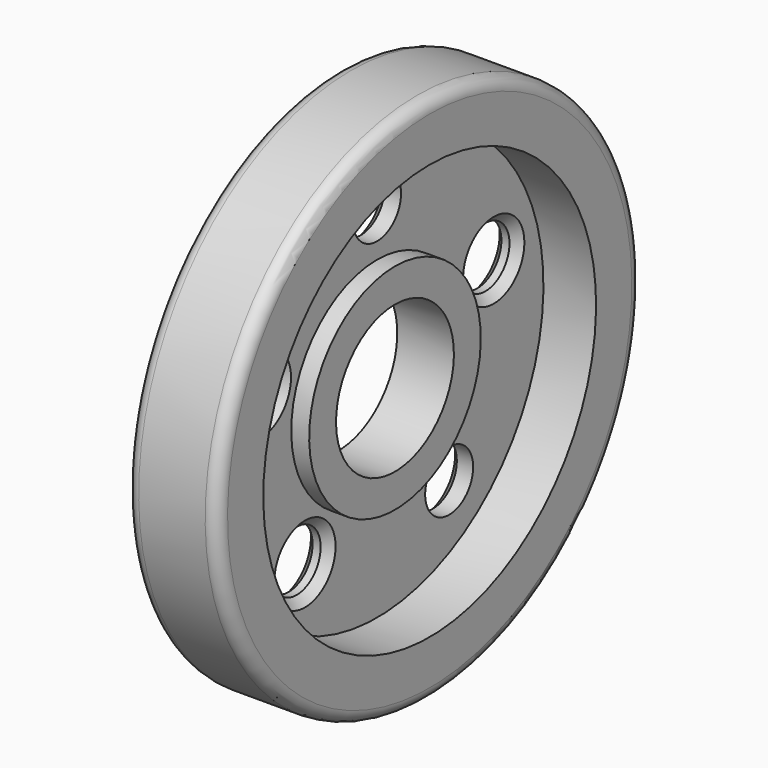
from build123d import *

# Parameters (mm, degrees)
F2_R     = 7.2342106025
F3_DEPTH = 25
F4_R     = 3
F5_SIZE  = 2


with BuildPart() as f1:
    # F0 (on Front) → F1 (revolve)
    with BuildSketch(Plane.XZ):
        Polygon((0, 25.867851451), (0, 17.7663322538), (13.6637529358, 17.7663322538), (13.6637529358, 25.867851451), (9.3429423869, 25.867851451), (9.3429423869, 50.1724109054), (22.035324946, 50.1724109054), (22.035324946, 63.9449954033), (0, 63.9449954033), (0, 50.1724109054), (3.4018275328, 50.1724109054), (3.4018275328, 25.867851451), align=None)
    revolve(axis=Axis((6.8318764679, 0, 0), (1, 0, 0)))

    # F2 (on face) → F3 (cut)
    with BuildSketch(Plane.YZ.offset(9.3429423869)):
        with Locations((0, 36.9940809906)):
            Circle(F2_R)
        with Locations((-21.7445752284, -29.9288402126)):
            Circle(F2_R)
        with Locations((21.7445752284, -29.9288402126)):
            Circle(F2_R)
        with Locations((35.1834617904, 11.4317997174)):
            Circle(F2_R)
        with Locations((-35.1834617904, 11.4317997174)):
            Circle(F2_R)
    extrude(amount=-F3_DEPTH, mode=Mode.SUBTRACT)

    # F4
    f4_edges = [f1.edges().sort_by_distance(p)[0] for p in [
        (22.035325, 0, -63.944995),
        (0, 0, -63.944995),
        (0, 0, -50.172411),
    ]]
    fillet(f4_edges, radius=F4_R)

    # F5
    f5_edges = [f1.edges().sort_by_distance(p)[0] for p in [
        (3.401828, -7.234211, 36.994081),
        (9.342942, 27.949251, 11.4318),
        (6.372385, 42.417672, 11.4318),
        (3.401828, 27.949251, 11.4318),
        (9.342942, -42.417672, 11.4318),
        (6.372385, -27.949251, 11.4318),
        (3.401828, -42.417672, 11.4318),
        (9.342942, -28.978786, -29.92884),
        (6.372385, -14.510365, -29.92884),
        (3.401828, -28.978786, -29.92884),
        (3.401828, 14.510365, -29.92884),
    ]]
    chamfer(f5_edges, length=F5_SIZE)


solid = f1.part
